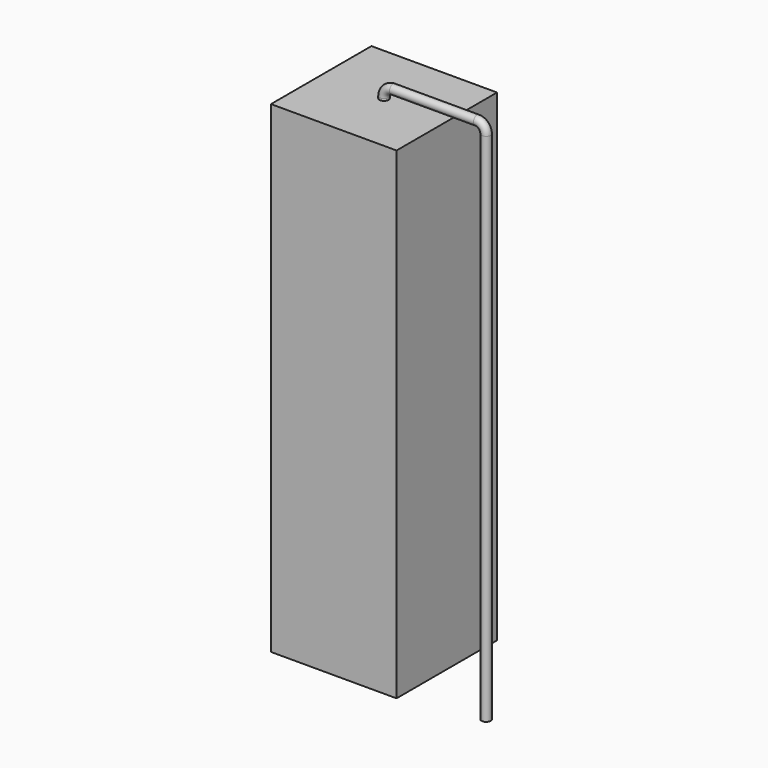
from build123d import *

# Parameters (mm, degrees)
SKETCH_R    = 0.45
SKETCH002_W = 12.5
SKETCH002_H = 48
PAD_DEPTH   = 6.25


with BuildPart() as sweep_body:
    # Sweep: sweep along a path in Sketch001
    with BuildLine(Plane.XZ) as sweep_path:
        Line((0, -3), (0, 48.3))
        ThreePointArc((0, 48.3), (0.263608, 48.9364), (0.900011, 49.2))
        Line((0.900011, 49.2), (9.26, 49.2))
        ThreePointArc((9.26, 49.2), (9.896396, 48.936396), (10.16, 48.3))
        Line((10.16, 48.3), (10.16, -3))
    # Sketch → Sweep (sweep)
    with BuildSketch(Plane.XY.offset(-2)):
        Circle(SKETCH_R)
    sweep(path=sweep_path.line)


with BuildPart() as pad:
    # Sketch002 → Pad (new body, symmetric)
    with BuildSketch(Plane.XZ):
        with Locations((0, 24.1)):
            Rectangle(SKETCH002_W, SKETCH002_H)
    extrude(amount=PAD_DEPTH, both=True)


solid = Compound([sweep_body.part, pad.part])
